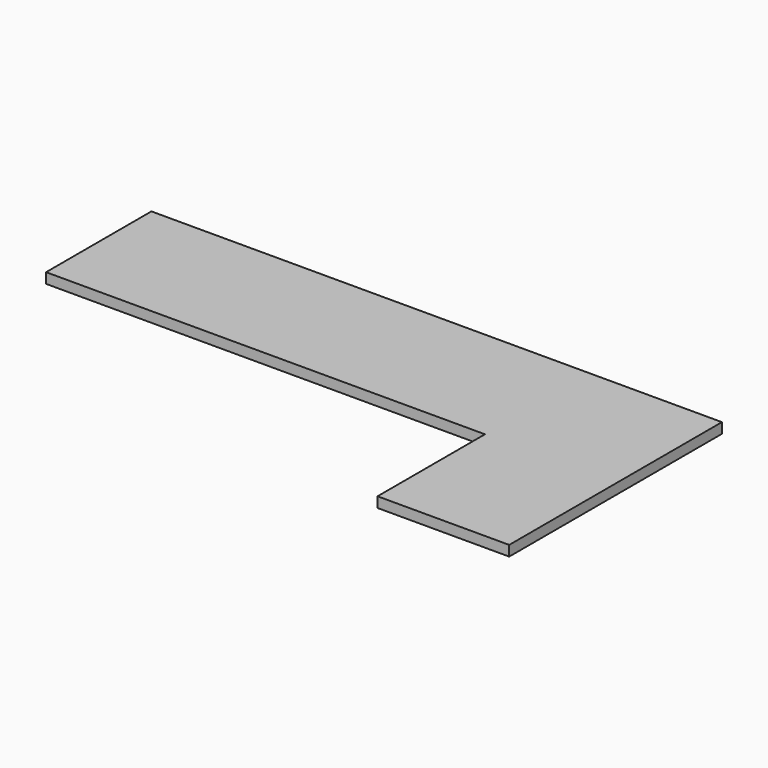
from build123d import *

# Parameters (mm, degrees)
F1_DEPTH = 50.8


with BuildPart() as f1:
    # F0 (on Top) → F1 (new body)
    with BuildSketch(Plane.XY):
        Polygon((-2159, -323.85), (0, -323.85), (0, 0), (0, 323.85), (-2159, 323.85), align=None)
        Polygon((0, 0), (0, -323.85), (0, -984.25), (647.7, -984.25), (647.7, 323.85), (0, 323.85), align=None)
    extrude(amount=F1_DEPTH)


solid = f1.part
